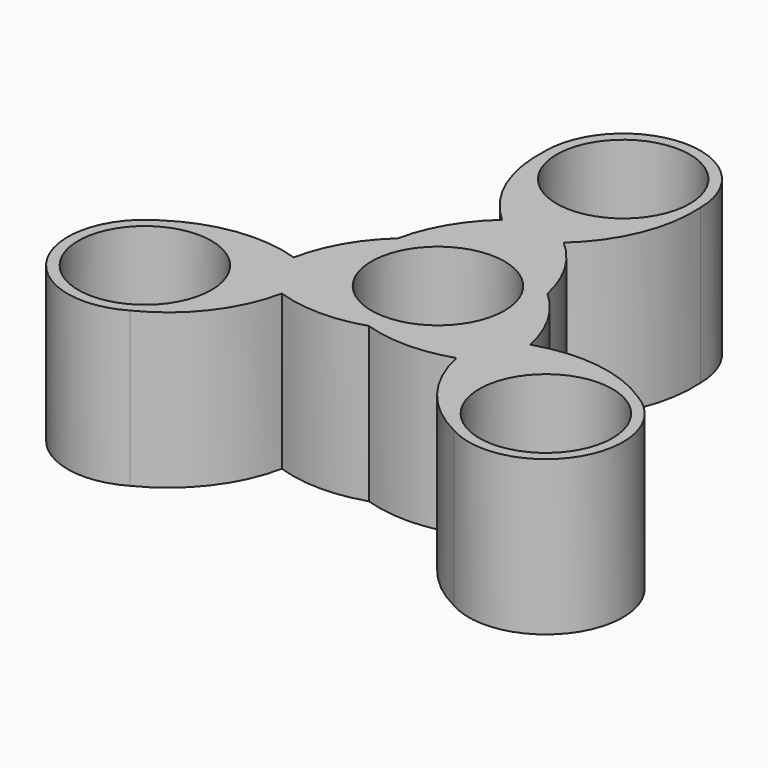
from build123d import *

# Parameters (mm, degrees)
F0_R     = 10.9601
F0_R_2   = 12.7
F1_DEPTH = 25.4


with BuildPart() as f1:
    # F0 (on Top) → F1 (new body)
    with BuildSketch(Plane.XY):
        with BuildLine():
            ThreePointArc((5.08, 19.525683), (11.038189, 27.93156), (12.7, 38.1))
            ThreePointArc((12.7, 38.1), (0, 50.8), (-12.7, 38.1))
            ThreePointArc((-12.7, 38.1), (-11.038189, 27.93156), (-5.08, 19.525683))
            ThreePointArc((-5.08, 19.525683), (-9.703888, 13.905597), (-12.327043, 7.117022))
            ThreePointArc((-12.327043, 7.117022), (-16.894544, 1.451015), (-19.449737, -5.363432))
            ThreePointArc((-19.449737, -5.363432), (-29.708535, -4.406428), (-39.345568, -8.051477))
            ThreePointArc((-39.345568, -8.051477), (-43.994091, -25.4), (-26.645568, -30.048523))
            ThreePointArc((-26.645568, -30.048523), (-18.670346, -23.525132), (-14.369737, -14.16225))
            ThreePointArc((-14.369737, -14.16225), (-7.190656, -15.356612), (0, -14.234043))
            ThreePointArc((0, -14.234043), (7.190656, -15.356612), (14.369737, -14.16225))
            ThreePointArc((14.369737, -14.16225), (18.670346, -23.525132), (26.645568, -30.048523))
            ThreePointArc((26.645568, -30.048523), (43.994091, -25.4), (39.345568, -8.051477))
            ThreePointArc((39.345568, -8.051477), (29.708535, -4.406428), (19.449737, -5.363432))
            ThreePointArc((19.449737, -5.363432), (16.894544, 1.451015), (12.327043, 7.117022))
            ThreePointArc((12.327043, 7.117022), (9.703888, 13.905597), (5.08, 19.525683))
        make_face()
        with Locations((-32.995568, -19.05)):
            Circle(F0_R, mode=Mode.SUBTRACT)
        with Locations((32.995568, -19.05)):
            Circle(F0_R, mode=Mode.SUBTRACT)
        Circle(F0_R_2, mode=Mode.SUBTRACT)
        with Locations((0, 38.1)):
            Circle(F0_R, mode=Mode.SUBTRACT)
        Circle(F0_R_2)
        Circle(F0_R, mode=Mode.SUBTRACT)
    extrude(amount=F1_DEPTH)


solid = f1.part
